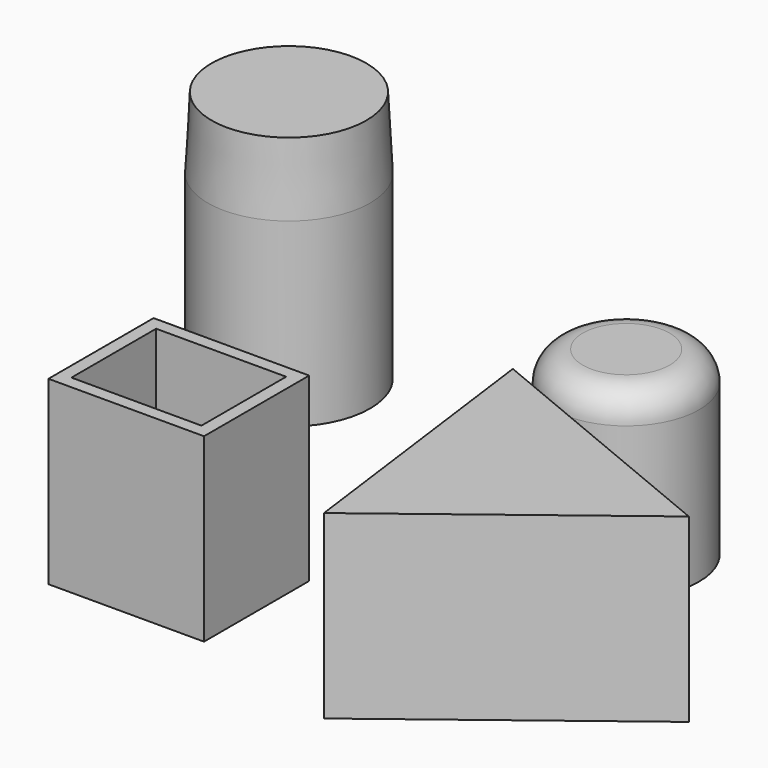
from build123d import *

# Parameters (mm, degrees)
F0_R     = 15.8903469299
F1_DEPTH = 35.4
F0_R_2   = 14.2954767942
F0_W     = 30.450001359
F0_H     = 25.7250014693
F2_R     = 15.8903469299
F3_DEPTH = 14
F3_TAPER = 3
F4_T     = -2.5
F5_R     = 5.7941125497


with BuildPart() as f1:
    # F0 (on Top) → F1 (new body)
    with BuildSketch(Plane.XY):
        with Locations((-59.4125017524, 43.1375019252)):
            Circle(F0_R)
    extrude(amount=F1_DEPTH)

    # F2 (on face) → F3 (join)
    with BuildSketch(Plane.XY.offset(35.4)):
        with Locations((-59.4125017524, 43.1375019252)):
            Circle(F2_R)
    extrude(amount=F3_DEPTH, taper=F3_TAPER)


with BuildPart() as f1b:
    # F0 (on Top) → F1, piece 2 (new body)
    with BuildSketch(Plane.XY):
        with Locations((17.2375012189, 29.837500304)):
            Circle(F0_R_2)
    extrude(amount=F1_DEPTH)

    # F5
    f5_edges = [f1b.edges().sort_by_distance(p)[0] for p in [
        (2.942024, 29.8375, 35.4),
    ]]
    fillet(f5_edges, radius=F5_R)


with BuildPart() as f1c:
    # F0 (on Top) → F1, piece 3 (new body)
    with BuildSketch(Plane.XY):
        with Locations((-30.3625017405, -20.1250007376)):
            Rectangle(F0_W, F0_H)
    extrude(amount=F1_DEPTH)

    # F4
    f4_openings = [f1c.faces().sort_by_distance(p)[0] for p in [
        (-30.362502, -20.125001, 35.4),
    ]]
    offset(amount=F4_T, openings=f4_openings)


with BuildPart() as f1d:
    # F0 (on Top) → F1, piece 4 (new body)
    with BuildSketch(Plane.XY):
        Polygon((15.0605507883, -41.3865997189), (59.314452788, -7.4384034879), (7.7875014395, 13.9125017449), align=None)
    extrude(amount=F1_DEPTH)


solid = Compound([f1.part, f1b.part, f1c.part, f1d.part])
